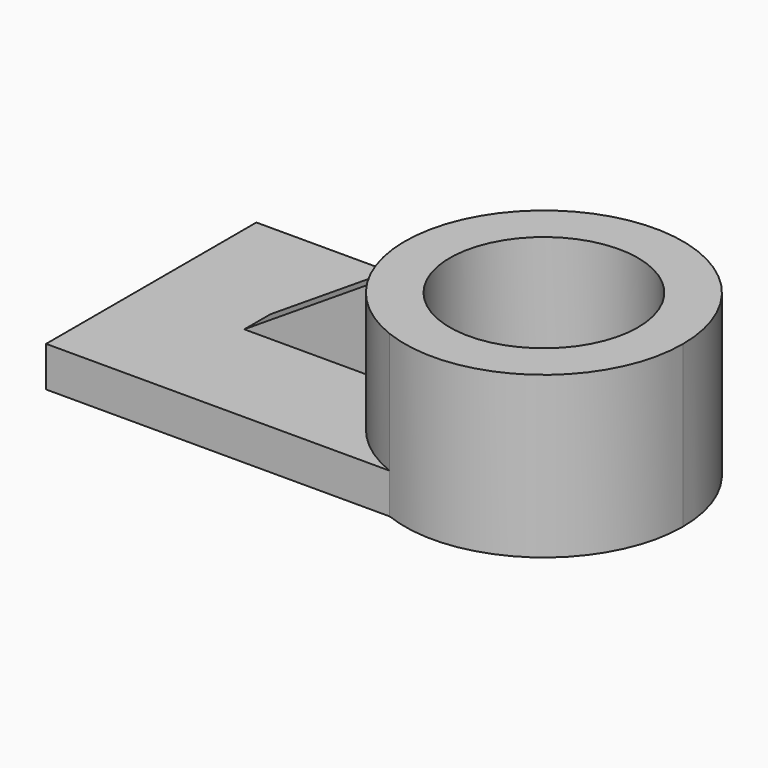
from build123d import *

# Parameters (mm, degrees)
F1_DEPTH = 25.4
F2_DEPTH = 6.35
F3_W     = 23.7435890902
F3_H     = 5.1485070969
F4_DEPTH = 15.24
F6_DEPTH = 25.4


with BuildPart() as f1:
    # F0 (on Top) → F1 (new body)
    with BuildSketch(Plane.XY):
        with BuildLine():
            Line((18.8931578837, 24.1700439467), (18.8931578837, 31.7375900053))
            ThreePointArc((18.8931578837, 31.7375900053), (3.1761509097, 11.6131597759), (17.1237481406, -9.7756581381))
            Line((17.1237481406, -9.7756581381), (18.8931578837, -9.7756581381))
            Line((18.8931578837, -9.7756581381), (18.8931578837, -2.813992159))
            ThreePointArc((18.8931578837, -2.813992159), (10.25801694, 10.6780258939), (18.8931578837, 24.1700439467))
        make_face()
        with BuildLine():
            ThreePointArc((17.1237481406, -9.7756581381), (37.4998302695, -7.4566605731), (47.0756132336, 10.6780258939))
            ThreePointArc((47.0756132336, 10.6780258939), (38.2608461116, 28.2689044259), (18.8931578837, 31.7375900053))
            Line((18.8931578837, 31.7375900053), (18.8931578837, 24.1700439467))
            ThreePointArc((18.8931578837, 24.1700439467), (33.1252948881, 23.1923094524), (39.9738272468, 10.6780258939))
            ThreePointArc((39.9738272468, 10.6780258939), (33.1252948881, -1.8362576647), (18.8931578837, -2.813992159))
            Line((18.8931578837, -2.813992159), (18.8931578837, -9.7756581381))
            Line((18.8931578837, -9.7756581381), (17.1237481406, -9.7756581381))
        make_face()
    extrude(amount=F1_DEPTH)

    # F0 (on Top) → F2 (join)
    with BuildSketch(Plane.XY):
        with BuildLine():
            ThreePointArc((17.1237481406, -9.7756581381), (37.4998302695, -7.4566605731), (47.0756132336, 10.6780258939))
            ThreePointArc((47.0756132336, 10.6780258939), (38.2608461116, 28.2689044259), (18.8931578837, 31.7375900053))
            Line((18.8931578837, 31.7375900053), (18.8931578837, 24.1700439467))
            ThreePointArc((18.8931578837, 24.1700439467), (33.1252948881, 23.1923094524), (39.9738272468, 10.6780258939))
            ThreePointArc((39.9738272468, 10.6780258939), (33.1252948881, -1.8362576647), (18.8931578837, -2.813992159))
            Line((18.8931578837, -2.813992159), (18.8931578837, -9.7756581381))
            Line((18.8931578837, -9.7756581381), (17.1237481406, -9.7756581381))
        make_face()
        with BuildLine():
            Line((18.8931578837, 24.1700439467), (18.8931578837, 31.7375900053))
            ThreePointArc((18.8931578837, 31.7375900053), (3.1761509097, 11.6131597759), (17.1237481406, -9.7756581381))
            Line((17.1237481406, -9.7756581381), (18.8931578837, -9.7756581381))
            Line((18.8931578837, -9.7756581381), (18.8931578837, -2.813992159))
            ThreePointArc((18.8931578837, -2.813992159), (10.25801694, 10.6780258939), (18.8931578837, 24.1700439467))
        make_face()
        with BuildLine():
            ThreePointArc((17.1237481406, -9.7756581381), (3.1761509097, 11.6131597759), (18.8931578837, 31.7375900053))
            Line((18.8931578837, 31.7375900053), (-37.1474996209, 31.7375900053))
            Line((-37.1474996209, 31.7375900053), (-37.1474996209, -9.7756581381))
            Line((-37.1474996209, -9.7756581381), (17.1237481406, -9.7756581381))
        make_face()
    extrude(amount=F2_DEPTH)

    # F3 (on face) → F4 (join)
    with BuildSketch(Plane.XY.offset(6.35)):
        with Locations((-8.6094063437, 11.0956405284)):
            Rectangle(F3_W, F3_H)
    extrude(amount=F4_DEPTH)

    # F5 (on face) → F6 (cut)
    with BuildSketch(Plane.XZ.offset(-8.52138698)):
        Polygon((-20.4812008888, 6.35), (3.2623882014, 21.59), (-20.4812008888, 21.59), align=None)
    extrude(amount=-F6_DEPTH, mode=Mode.SUBTRACT)


solid = f1.part
